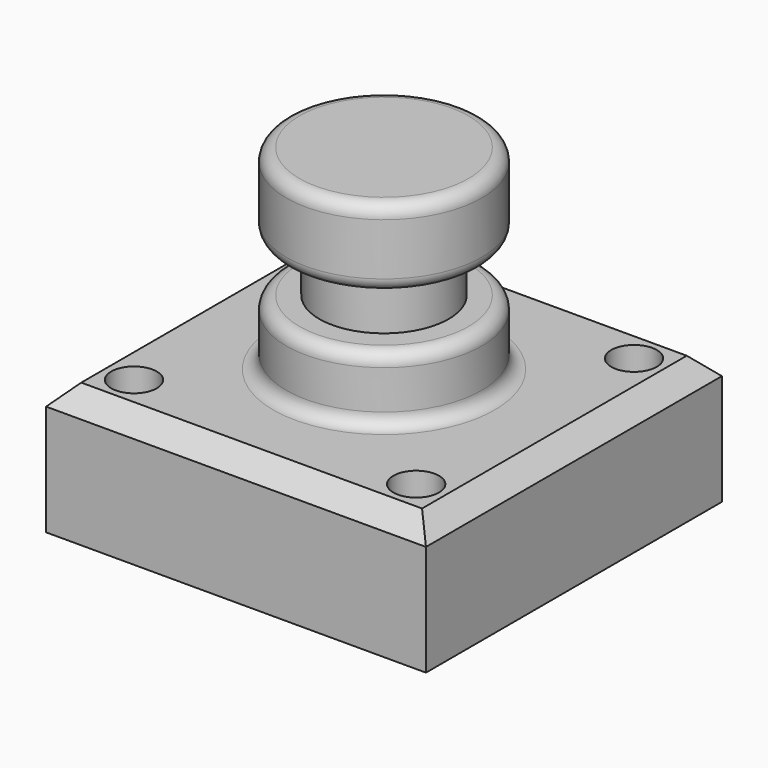
from build123d import *

# Parameters (mm, degrees)
F0_W     = 74.0873217583
F0_H     = 72.1489936113
F1_DEPTH = 25.4
F2_R     = 4.445
F3_DEPTH = 25.4
F4_W     = 19.05
F4_H     = 38.1
F6_W     = 10.4351935416
F6_H     = 10.16
F8_SIZE  = 3.81
F9_R     = 2.54
F10_R    = 2.54


with BuildPart() as f1:
    # F0 (on Top) → F1 (new body)
    with BuildSketch(Plane.XY):
        Rectangle(F0_W, F0_H)
    extrude(amount=F1_DEPTH)

    # F2 (on face) → F3 (cut)
    with BuildSketch(Plane(origin=(0, 0, 0), x_dir=(1, 0, 0), z_dir=(0, 0, -1))):
        with Locations((27.5186608791, -26.5494968057)):
            Circle(F2_R)
        with Locations((27.5186608791, 26.5494968057)):
            Circle(F2_R)
        with Locations((-27.5186608791, 26.5494968057)):
            Circle(F2_R)
        with Locations((-27.5186608791, -26.5494968057)):
            Circle(F2_R)
    extrude(amount=-F3_DEPTH, mode=Mode.SUBTRACT)

    # F4 (on Front) → F5 (revolve)
    with BuildSketch(Plane.XZ):
        with Locations((-9.525, 44.45)):
            Rectangle(F4_W, F4_H)
    revolve(axis=Axis((0, 0, 44.45), (0, 0, -1)))

    # F6 (on Right) → F7 (revolve, cut)
    with BuildSketch(Plane.YZ):
        with Locations((17.8258673744, 43.18)):
            Rectangle(F6_W, F6_H)
    revolve(axis=Axis((0, 0, 63.5), (0, 0, -1)), mode=Mode.SUBTRACT)

    # F8
    f8_edges = [f1.edges().sort_by_distance(p)[0] for p in [
        (-37.043661, 0, 25.4),
        (0, -36.074497, 25.4),
        (37.043661, 0, 25.4),
        (0, 36.074497, 25.4),
    ]]
    chamfer(f8_edges, length=F8_SIZE)

    # F9
    f9_edges = [f1.edges().sort_by_distance(p)[0] for p in [
        (19.05, 0, 38.1),
        (19.05, 0, 48.26),
        (19.05, 0, 25.4),
    ]]
    fillet(f9_edges, radius=F9_R)

    # F10
    f10_edges = [f1.edges().sort_by_distance(p)[0] for p in [
        (19.05, 0, 63.5),
    ]]
    fillet(f10_edges, radius=F10_R)


solid = f1.part
